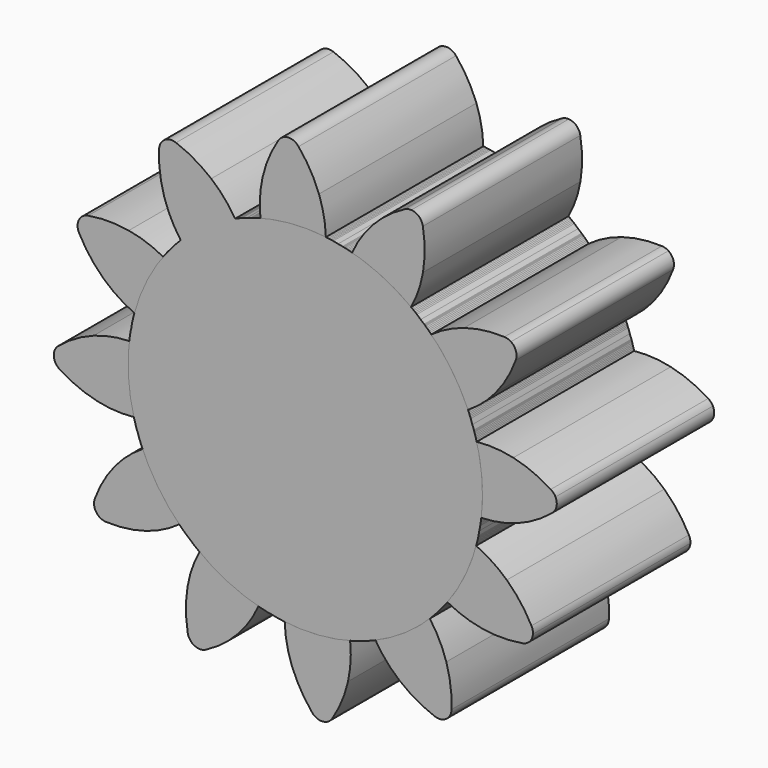
from build123d import *

# Parameters (mm, degrees)
F1_DEPTH = 25
F2_COUNT = 12


with BuildPart() as f1:
    # F0 (on Front) → F1 (new body)
    with BuildSketch(Plane.XZ):
        with BuildLine():
            ThreePointArc((-1.096438, 2.460492), (-9.152727, -37.136007), (27.113883, -19.316929))
            ThreePointArc((27.113883, -19.316929), (21.418809, -4.351356), (7.215204, 3.041875))
            ThreePointArc((7.215204, 3.041875), (3.03225, 3.139082), (-1.096438, 2.460492))
        make_face()
        with BuildLine():
            ThreePointArc((-1.096438, 2.460492), (3.03225, 3.139082), (7.215204, 3.041875))
            ThreePointArc((7.215204, 3.041875), (6.964167, 5.346032), (6.341105, 7.578509))
            ThreePointArc((6.341105, 7.578509), (5.237709, 9.920494), (3.74846, 12.03816))
            ThreePointArc((3.74846, 12.03816), (2.854783, 12.595725), (1.80938, 12.466612))
            ThreePointArc((1.80938, 12.466612), (1.443388, 12.213698), (1.162548, 11.86867))
            ThreePointArc((1.162548, 11.86867), (-0.03755, 9.574735), (-0.825816, 7.108764))
            ThreePointArc((-0.825816, 7.108764), (-1.153225, 4.795812), (-1.096438, 2.460492))
        make_face()
    extrude(amount=F1_DEPTH)


with BuildPart() as f2_1:
    # F2: instance of F1
    add(f1.part.rotate(Axis((4.603003, 0, -19.316929), (0, 1, 0)), 1 * 360 / F2_COUNT))


with BuildPart() as f2_2:
    # F2: instance of F1
    add(f1.part.rotate(Axis((4.603003, 0, -19.316929), (0, 1, 0)), 2 * 360 / F2_COUNT))


with BuildPart() as f2_3:
    # F2: instance of F1
    add(f1.part.rotate(Axis((4.603003, 0, -19.316929), (0, 1, 0)), 3 * 360 / F2_COUNT))


with BuildPart() as f2_4:
    # F2: instance of F1
    add(f1.part.rotate(Axis((4.603003, 0, -19.316929), (0, 1, 0)), 4 * 360 / F2_COUNT))


with BuildPart() as f2_5:
    # F2: instance of F1
    add(f1.part.rotate(Axis((4.603003, 0, -19.316929), (0, 1, 0)), 5 * 360 / F2_COUNT))


with BuildPart() as f2_6:
    # F2: instance of F1
    add(f1.part.rotate(Axis((4.603003, 0, -19.316929), (0, 1, 0)), 6 * 360 / F2_COUNT))


with BuildPart() as f2_7:
    # F2: instance of F1
    add(f1.part.rotate(Axis((4.603003, 0, -19.316929), (0, 1, 0)), 7 * 360 / F2_COUNT))


with BuildPart() as f2_8:
    # F2: instance of F1
    add(f1.part.rotate(Axis((4.603003, 0, -19.316929), (0, 1, 0)), 8 * 360 / F2_COUNT))


with BuildPart() as f2_9:
    # F2: instance of F1
    add(f1.part.rotate(Axis((4.603003, 0, -19.316929), (0, 1, 0)), 9 * 360 / F2_COUNT))


with BuildPart() as f2_10:
    # F2: instance of F1
    add(f1.part.rotate(Axis((4.603003, 0, -19.316929), (0, 1, 0)), 10 * 360 / F2_COUNT))


with BuildPart() as f2_11:
    # F2: instance of F1
    add(f1.part.rotate(Axis((4.603003, 0, -19.316929), (0, 1, 0)), 11 * 360 / F2_COUNT))


solid = Compound([f1.part, f2_1.part, f2_2.part, f2_3.part, f2_4.part, f2_5.part, f2_6.part, f2_7.part, f2_8.part, f2_9.part, f2_10.part, f2_11.part])
